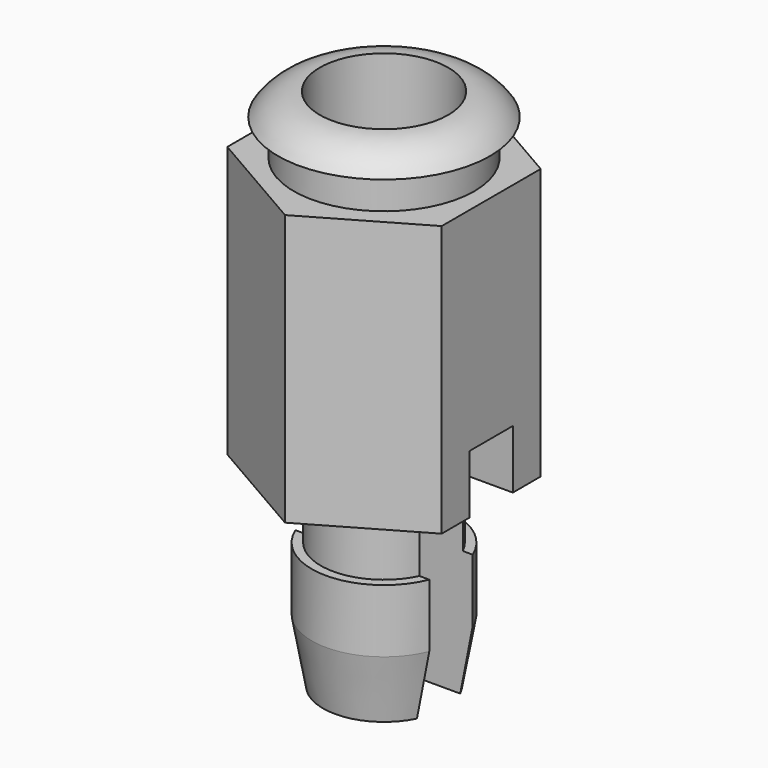
from build123d import *

# Parameters (mm, degrees)
SKETCH010_R          = 4.679612
POCKET005_DEPTH      = 10.301
SKETCH011_W          = 1.2
SKETCH011_H          = 6
POCKET006_DEPTH      = 2.376
POCKET006_DEPTH_BACK = 2.376


with BuildPart() as part:
    # Sketch009 → Revolution (revolve)
    with BuildSketch(Plane.XZ):
        with BuildLine():
            Line((1.4224, 0.5), (1.4224, -4.178777))
            Line((1.4224, -4.178777), (0, -5))
            Line((0, -5), (0, -11.1))
            Line((0, -11.1), (1.35, -11.1))
            Line((1.35, -11.1), (1.6, -9.7))
            Line((1.6, -9.7), (1.6, -8.3))
            Line((1.6, -8.3), (1.4, -8.3))
            Line((1.4, -8.3), (1.4, -6.8))
            Line((1.4, -6.8), (4, -6.8))
            Line((4, -6.8), (4, -0.8))
            Line((4, -0.8), (2, -0.8))
            Line((2, -0.8), (2, 0))
            Line((2, 0), (2.35, 0))
            ThreePointArc((2.35, 0), (1.949288, 0.36704), (1.4224, 0.5))
        make_face()
    revolve(axis=Axis((0, 0, 0), (0, 0, 1)))

    # Sketch010 (on Face10 of Revolution) → Pocket005 (cut, through all)
    with BuildSketch(Plane(origin=(0, 0, -0.8), x_dir=(-1, 0, 0), z_dir=(0, 0, 1))):
        Circle(SKETCH010_R)
        Polygon((0, 2.742414), (-2.375, 1.371207), (-2.375, -1.371207), (0, -2.742414), (2.375, -1.371207), (2.375, 1.371207), align=None, mode=Mode.SUBTRACT)
    extrude(amount=-POCKET005_DEPTH, mode=Mode.SUBTRACT)

    # Sketch011 → Pocket006 (cut, two sides)
    with BuildSketch(Plane.YZ) as pocket006_sk:
        with Locations((0, -8.5)):
            Rectangle(SKETCH011_W, SKETCH011_H)
    extrude(amount=-POCKET006_DEPTH, mode=Mode.SUBTRACT)
    extrude(pocket006_sk.sketch, amount=POCKET006_DEPTH_BACK, mode=Mode.SUBTRACT)


with BuildPart() as part_1:
    # Body002 placement: moved
    add(part.part.moved(Location((-12.495, 0, 0.4))))


with BuildPart() as part_2:
    # Clone placement: moved
    add(part_1.part.moved(Location((12.495, 0, -0.4))))


with BuildPart() as part_3:
    # Body003 placement: moved
    add(part_2.part.moved(Location((12.495, 0, 0.4))))


solid = part_3.part
